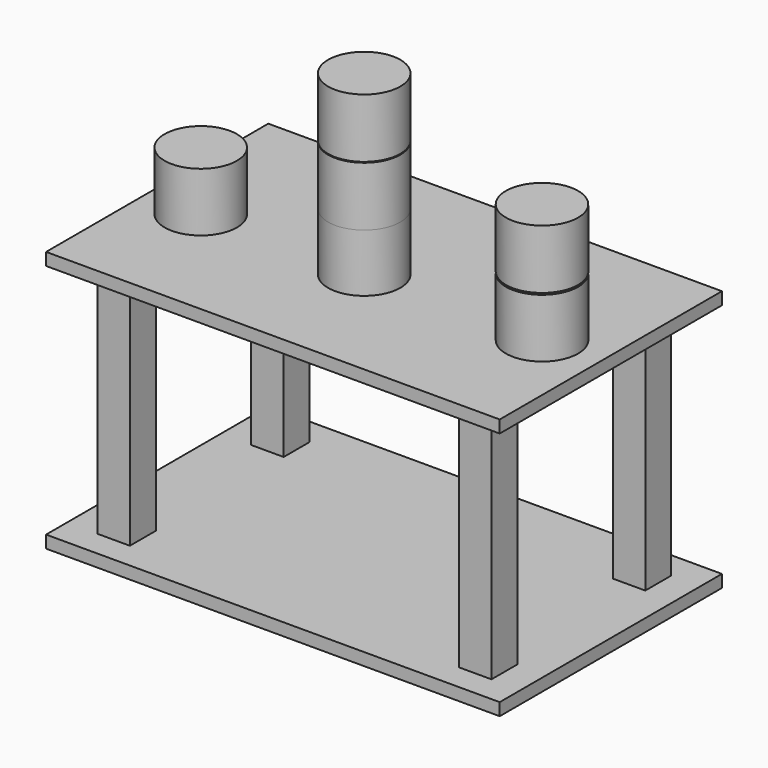
from build123d import *

# Parameters (mm, degrees)
F1_DEPTH      = 83.312
F2_W          = 9.737652
F2_H          = 9.737652
F2_W_2        = 7.418494
F2_H_2        = 7.309928
F3_DEPTH      = 0.2794
F3_DEPTH_BACK = 76.2
F7_R          = 10.844243
F8_DEPTH      = 17.78


with BuildPart() as f1:
    # F0 (on Front) → F1 (new body)
    with BuildSketch(Plane.XZ):
        Polygon((-67.333996, 14.985999), (-56.169812, 14.985999), (-52.448418, 14.985999), (53.458523, 14.985999), (57.179917, 14.985999), (68.72952, 14.985999), (68.72952, 18.707396), (-67.333996, 18.707396), align=None)
        Polygon((-67.333996, -55.937223), (-67.333996, -59.658621), (68.72952, -59.658621), (68.72952, -55.937223), (-52.448418, -55.937223), (-56.169812, -55.937223), align=None)
    extrude(amount=F1_DEPTH)


with BuildPart() as f3:
    # F2 (on face) → F3 (new body, two sides)
    with BuildSketch(Plane(origin=(0, 0, -59.658621), x_dir=(1, 0, 0), z_dir=(0, 0, -1))) as f3_sk:
        with Locations((-53.328721, 12.955614)):
            Rectangle(F2_W, F2_H)
        with Locations((-53.290842, 12.89968)):
            Rectangle(F2_W_2, F2_H_2, mode=Mode.SUBTRACT)
    extrude(amount=F3_DEPTH)
    extrude(f3_sk.sketch, amount=-F3_DEPTH_BACK)


with BuildPart() as f4_1:
    # F4: copy of F3
    add(f3.part.moved(Location((108.458, 0, 0))))


with BuildPart() as f5_1:
    # F5: copy of F3
    add(f3.part.moved(Location((0, -57.658, 0))))


with BuildPart() as f5_2:
    # F5: copy of F4_1
    add(f4_1.part.moved(Location((0, -57.658, 0))))


with BuildPart() as f4_1_1:
    # F6: moved
    add(f4_1.part.moved(Location((285.75, 0, 0))))


with BuildPart() as f1_1:
    # F6: moved
    add(f1.part.moved(Location((285.75, 0, 0))))


with BuildPart() as f3_1:
    # F6: moved
    add(f3.part.moved(Location((285.75, 0, 0))))


with BuildPart() as f5_1_1:
    # F6: moved
    add(f5_1.part.moved(Location((285.75, 0, 0))))


with BuildPart() as f5_2_1:
    # F6: moved
    add(f5_2.part.moved(Location((285.75, 0, 0))))


with BuildPart() as f8:
    # F7 (on Top) → F8 (new body)
    with BuildSketch(Plane.XY):
        with Locations((-23.067361, 19.550676)):
            Circle(F7_R)
    extrude(amount=F8_DEPTH)


with BuildPart() as f9_1:
    # F9: copy of F8
    add(f8.part.moved(Location((49.022, 0, 0))))


with BuildPart() as f8_1:
    # F10: moved
    add(f8.part.moved(Location((-24.892, 0, 0))))


with BuildPart() as f9_1_1:
    # F10: moved
    add(f9_1.part.moved(Location((-24.892, 0, 0))))


with BuildPart() as f11_1:
    # F11: copy of F8
    add(f8_1.part.moved(Location((102.362, 0, 0))))


with BuildPart() as f12_1:
    # F12: copy of F9_1
    add(f9_1_1.part.moved(Location((0, 0, 17.526))))


with BuildPart() as f13_1:
    # F13: copy of F9_1
    add(f9_1_1.part.moved(Location((0, 0, 35.56))))


with BuildPart() as f14_1:
    # F14: copy of F11_1
    add(f11_1.part.moved(Location((0, 0, 18.288))))


with BuildPart() as f8_2:
    # F15: moved
    add(f8_1.part.moved(Location((282.702, -65.278, 18.542))))


with BuildPart() as f9_1_2:
    # F15: moved
    add(f9_1_1.part.moved(Location((282.702, -65.278, 18.542))))


with BuildPart() as f11_1_1:
    # F15: moved
    add(f11_1.part.moved(Location((282.702, -65.278, 18.542))))


with BuildPart() as f12_1_1:
    # F15: moved
    add(f12_1.part.moved(Location((282.702, -65.278, 18.542))))


with BuildPart() as f14_1_1:
    # F15: moved
    add(f14_1.part.moved(Location((282.702, -65.278, 18.542))))


with BuildPart() as f13_1_1:
    # F15: moved
    add(f13_1.part.moved(Location((282.702, -65.278, 18.542))))


solid = Compound([f4_1_1.part, f1_1.part, f3_1.part, f5_1_1.part, f5_2_1.part, f8_2.part, f9_1_2.part, f11_1_1.part, f12_1_1.part, f14_1_1.part, f13_1_1.part])
